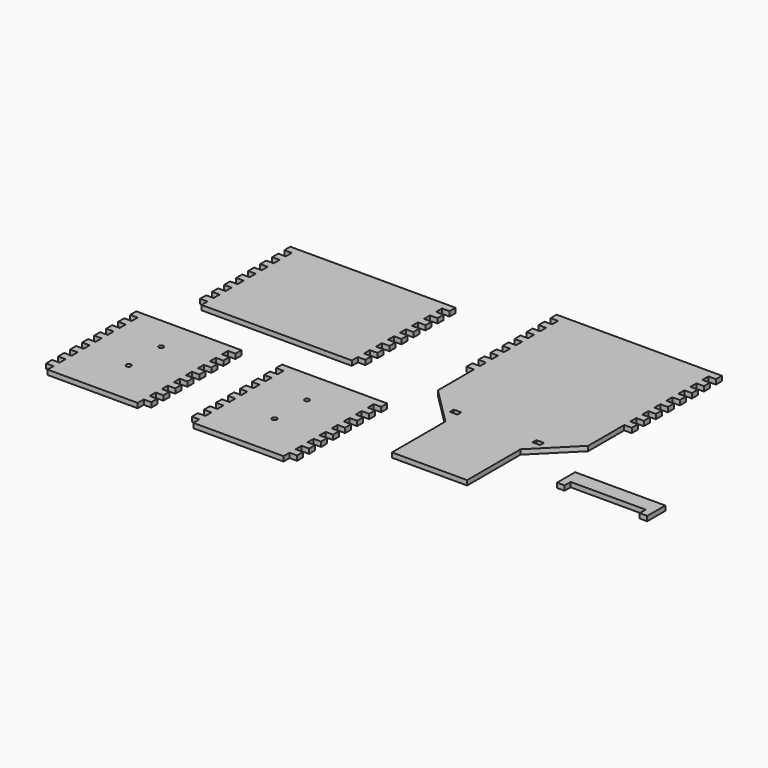
from build123d import *

# Parameters (mm, degrees)
F0_W     = 5
F0_H     = 5
F0_H_2   = 3.175
F1_W     = 5
F1_H     = 5
F2_DEPTH = 3.175


with BuildPart() as f2:
    # F0 (on Top) + F1 (on Top) → F2 (new body)
    with BuildSketch(Plane.XY):
        with Locations((68.193905, 7.5)):
            Rectangle(F0_W, F0_H)
        with Locations((68.193905, 17.5)):
            Rectangle(F0_W, F0_H)
        with Locations((68.193905, 27.5)):
            Rectangle(F0_W, F0_H)
        with Locations((68.193905, 37.5)):
            Rectangle(F0_W, F0_H)
        with Locations((68.193905, 47.5)):
            Rectangle(F0_W, F0_H)
        with Locations((68.193905, 57.5)):
            Rectangle(F0_W, F0_H)
        with Locations((68.193905, 67.5)):
            Rectangle(F0_W, F0_H)
        with Locations((68.193905, 77.5)):
            Rectangle(F0_W, F0_H)
        Polygon((15.693905, 80), (15.693905, 0), (65.693905, 0), (65.693905, 5), (65.693905, 10), (65.693905, 15), (65.693905, 20), (65.693905, 25), (65.693905, 30), (65.693905, 35), (65.693905, 40), (65.693905, 45), (65.693905, 50), (65.693905, 55), (65.693905, 60), (65.693905, 65), (65.693905, 70), (65.693905, 75), (65.693905, 80), align=None)
        Polygon((-34.306095, 5), (-34.306095, 0), (15.693905, 0), (15.693905, 80), (-34.306095, 80), (-34.306095, 75), (-34.306095, 70), (-34.306095, 65), (-34.306095, 60), (-34.306095, 55), (-34.306095, 50), (-34.306095, 45), (-34.306095, 40), (-34.306095, 35), (-34.306095, 30), (-34.306095, 25), (-34.306095, 20), (-34.306095, 15), (-34.306095, 10), align=None)
        Polygon((15.693905, 0), (-34.306095, 0), (-34.306095, -25), (-9.306095, -50), (-3.056095, -50), (3.193905, -50), (6.943905, -50), (15.693905, -50), align=None)
        with Locations((-11.806095, -38.4125)):
            Rectangle(F0_W, F0_H_2, mode=Mode.SUBTRACT)
        Polygon((65.693905, 0), (15.693905, 0), (15.693905, -50), (40.693905, -50), (65.693905, -25), align=None)
        with Locations((43.193905, -38.4125)):
            Rectangle(F0_W, F0_H_2, mode=Mode.SUBTRACT)
        with Locations((-36.806095, 7.5)):
            Rectangle(F0_W, F0_H)
        with Locations((-36.806095, 17.5)):
            Rectangle(F0_W, F0_H)
        with Locations((-36.806095, 27.5)):
            Rectangle(F0_W, F0_H)
        with Locations((-36.806095, 37.5)):
            Rectangle(F0_W, F0_H)
        with Locations((-36.806095, 47.5)):
            Rectangle(F0_W, F0_H)
        with Locations((-36.806095, 57.5)):
            Rectangle(F0_W, F0_H)
        with Locations((-36.806095, 67.5)):
            Rectangle(F0_W, F0_H)
        with Locations((-36.806095, 77.5)):
            Rectangle(F0_W, F0_H)
        Polygon((138.929565, -52.420982), (78.929565, -52.420982), (78.929565, -62.420982), (83.929565, -62.420982), (133.929565, -62.420982), (138.929565, -62.420982), align=None)
        with Locations((81.429565, -64.920982)):
            Rectangle(F0_W, F0_H)
        with Locations((136.429565, -64.920982)):
            Rectangle(F0_W, F0_H)
        Polygon((40.693905, -50), (15.693905, -50), (6.943905, -50), (3.193905, -50), (-3.056095, -50), (-9.306095, -50), (-9.306095, -94.45), (40.693905, -94.45), align=None)
    with BuildSketch(Plane.XY):
        with BuildLine():
            Line((-207.239708, -128.51478), (-207.239708, -133.51478))
            Line((-207.239708, -133.51478), (-177.239708, -133.51478))
            Line((-177.239708, -133.51478), (-177.239708, -105.10228))
            ThreePointArc((-177.239708, -105.10228), (-178.827208, -103.51478), (-177.239708, -101.92728))
            Line((-177.239708, -101.92728), (-177.239708, -78.10228))
            ThreePointArc((-177.239708, -78.10228), (-178.827208, -76.51478), (-177.239708, -74.92728))
            Line((-177.239708, -74.92728), (-177.239708, -53.51478))
            Line((-177.239708, -53.51478), (-207.239708, -53.51478))
            Line((-207.239708, -53.51478), (-207.239708, -58.51478))
            Line((-207.239708, -58.51478), (-207.239708, -63.51478))
            Line((-207.239708, -63.51478), (-207.239708, -68.51478))
            Line((-207.239708, -68.51478), (-207.239708, -73.51478))
            Line((-207.239708, -73.51478), (-207.239708, -78.51478))
            Line((-207.239708, -78.51478), (-207.239708, -83.51478))
            Line((-207.239708, -83.51478), (-207.239708, -88.51478))
            Line((-207.239708, -88.51478), (-207.239708, -93.51478))
            Line((-207.239708, -93.51478), (-207.239708, -98.51478))
            Line((-207.239708, -98.51478), (-207.239708, -103.51478))
            Line((-207.239708, -103.51478), (-207.239708, -108.51478))
            Line((-207.239708, -108.51478), (-207.239708, -113.51478))
            Line((-207.239708, -113.51478), (-207.239708, -118.51478))
            Line((-207.239708, -118.51478), (-207.239708, -123.51478))
            Line((-207.239708, -123.51478), (-207.239708, -128.51478))
        make_face()
        with Locations((-209.739708, -126.01478)):
            Rectangle(F1_W, F1_H)
        with Locations((-209.739708, -116.01478)):
            Rectangle(F1_W, F1_H)
        with Locations((-209.739708, -106.01478)):
            Rectangle(F1_W, F1_H)
        with Locations((-209.739708, -96.01478)):
            Rectangle(F1_W, F1_H)
        with Locations((-209.739708, -86.01478)):
            Rectangle(F1_W, F1_H)
        with Locations((-209.739708, -76.01478)):
            Rectangle(F1_W, F1_H)
        with Locations((-209.739708, -66.01478)):
            Rectangle(F1_W, F1_H)
        with Locations((-209.739708, -56.01478)):
            Rectangle(F1_W, F1_H)
        Polygon((-190.177808, -21.72308), (-190.177808, -26.72308), (-140.177808, -26.72308), (-140.177808, 53.27692), (-190.177808, 53.27692), (-190.177808, 48.27692), (-190.177808, 43.27692), (-190.177808, 38.27692), (-190.177808, 33.27692), (-190.177808, 28.27692), (-190.177808, 23.27692), (-190.177808, 18.27692), (-190.177808, 13.27692), (-190.177808, 8.27692), (-190.177808, 3.27692), (-190.177808, -1.72308), (-190.177808, -6.72308), (-190.177808, -11.72308), (-190.177808, -16.72308), align=None)
        Polygon((-140.177808, 53.27692), (-140.177808, -26.72308), (-90.177808, -26.72308), (-90.177808, -21.72308), (-90.177808, -16.72308), (-90.177808, -11.72308), (-90.177808, -6.72308), (-90.177808, -1.72308), (-90.177808, 3.27692), (-90.177808, 8.27692), (-90.177808, 13.27692), (-90.177808, 18.27692), (-90.177808, 23.27692), (-90.177808, 28.27692), (-90.177808, 33.27692), (-90.177808, 38.27692), (-90.177808, 43.27692), (-90.177808, 48.27692), (-90.177808, 53.27692), align=None)
        with Locations((-87.677808, 50.77692)):
            Rectangle(F1_W, F1_H)
        with Locations((-87.677808, 40.77692)):
            Rectangle(F1_W, F1_H)
        with Locations((-87.677808, 30.77692)):
            Rectangle(F1_W, F1_H)
        with Locations((-87.677808, 20.77692)):
            Rectangle(F1_W, F1_H)
        with Locations((-87.677808, 10.77692)):
            Rectangle(F1_W, F1_H)
        with Locations((-87.677808, 0.77692)):
            Rectangle(F1_W, F1_H)
        with Locations((-87.677808, -9.22308)):
            Rectangle(F1_W, F1_H)
        with Locations((-87.677808, -19.22308)):
            Rectangle(F1_W, F1_H)
        with Locations((-192.677808, -19.22308)):
            Rectangle(F1_W, F1_H)
        with Locations((-192.677808, -9.22308)):
            Rectangle(F1_W, F1_H)
        with Locations((-192.677808, 0.77692)):
            Rectangle(F1_W, F1_H)
        with Locations((-192.677808, 10.77692)):
            Rectangle(F1_W, F1_H)
        with Locations((-192.677808, 20.77692)):
            Rectangle(F1_W, F1_H)
        with Locations((-192.677808, 30.77692)):
            Rectangle(F1_W, F1_H)
        with Locations((-192.677808, 40.77692)):
            Rectangle(F1_W, F1_H)
        with Locations((-192.677808, 50.77692)):
            Rectangle(F1_W, F1_H)
        with BuildLine():
            Line((-177.239708, -105.10228), (-177.239708, -133.51478))
            Line((-177.239708, -133.51478), (-147.239708, -133.51478))
            Line((-147.239708, -133.51478), (-147.239708, -128.51478))
            Line((-147.239708, -128.51478), (-147.239708, -123.51478))
            Line((-147.239708, -123.51478), (-147.239708, -118.51478))
            Line((-147.239708, -118.51478), (-147.239708, -113.51478))
            Line((-147.239708, -113.51478), (-147.239708, -108.51478))
            Line((-147.239708, -108.51478), (-147.239708, -103.51478))
            Line((-147.239708, -103.51478), (-147.239708, -98.51478))
            Line((-147.239708, -98.51478), (-147.239708, -93.51478))
            Line((-147.239708, -93.51478), (-147.239708, -88.51478))
            Line((-147.239708, -88.51478), (-147.239708, -83.51478))
            Line((-147.239708, -83.51478), (-147.239708, -78.51478))
            Line((-147.239708, -78.51478), (-147.239708, -73.51478))
            Line((-147.239708, -73.51478), (-147.239708, -68.51478))
            Line((-147.239708, -68.51478), (-147.239708, -63.51478))
            Line((-147.239708, -63.51478), (-147.239708, -58.51478))
            Line((-147.239708, -58.51478), (-147.239708, -53.51478))
            Line((-147.239708, -53.51478), (-177.239708, -53.51478))
            Line((-177.239708, -53.51478), (-177.239708, -74.92728))
            ThreePointArc((-177.239708, -74.92728), (-176.117176, -75.392248), (-175.652208, -76.51478))
            ThreePointArc((-175.652208, -76.51478), (-176.117176, -77.637312), (-177.239708, -78.10228))
            Line((-177.239708, -78.10228), (-177.239708, -101.92728))
            ThreePointArc((-177.239708, -101.92728), (-176.117176, -102.392248), (-175.652208, -103.51478))
            ThreePointArc((-175.652208, -103.51478), (-176.117176, -104.637312), (-177.239708, -105.10228))
        make_face()
        with Locations((-144.739708, -76.01478)):
            Rectangle(F1_W, F1_H)
        with Locations((-144.739708, -86.01478)):
            Rectangle(F1_W, F1_H)
        with Locations((-144.739708, -56.01478)):
            Rectangle(F1_W, F1_H)
        with Locations((-144.739708, -116.01478)):
            Rectangle(F1_W, F1_H)
        with Locations((-144.739708, -66.01478)):
            Rectangle(F1_W, F1_H)
        with Locations((-144.739708, -96.01478)):
            Rectangle(F1_W, F1_H)
        with Locations((-144.739708, -126.01478)):
            Rectangle(F1_W, F1_H)
        with Locations((-144.739708, -106.01478)):
            Rectangle(F1_W, F1_H)
        with BuildLine():
            Line((-110.650933, -127.980252), (-110.650933, -132.980252))
            Line((-110.650933, -132.980252), (-80.650933, -132.980252))
            Line((-80.650933, -132.980252), (-80.650933, -104.567752))
            ThreePointArc((-80.650933, -104.567752), (-82.238433, -102.980252), (-80.650933, -101.392752))
            Line((-80.650933, -101.392752), (-80.650933, -77.567752))
            ThreePointArc((-80.650933, -77.567752), (-82.238433, -75.980252), (-80.650933, -74.392752))
            Line((-80.650933, -74.392752), (-80.650933, -52.980252))
            Line((-80.650933, -52.980252), (-110.650933, -52.980252))
            Line((-110.650933, -52.980252), (-110.650933, -57.980252))
            Line((-110.650933, -57.980252), (-110.650933, -62.980252))
            Line((-110.650933, -62.980252), (-110.650933, -67.980252))
            Line((-110.650933, -67.980252), (-110.650933, -72.980252))
            Line((-110.650933, -72.980252), (-110.650933, -77.980252))
            Line((-110.650933, -77.980252), (-110.650933, -82.980252))
            Line((-110.650933, -82.980252), (-110.650933, -87.980252))
            Line((-110.650933, -87.980252), (-110.650933, -92.980252))
            Line((-110.650933, -92.980252), (-110.650933, -97.980252))
            Line((-110.650933, -97.980252), (-110.650933, -102.980252))
            Line((-110.650933, -102.980252), (-110.650933, -107.980252))
            Line((-110.650933, -107.980252), (-110.650933, -112.980252))
            Line((-110.650933, -112.980252), (-110.650933, -117.980252))
            Line((-110.650933, -117.980252), (-110.650933, -122.980252))
            Line((-110.650933, -122.980252), (-110.650933, -127.980252))
        make_face()
        with BuildLine():
            Line((-80.650933, -104.567752), (-80.650933, -132.980252))
            Line((-80.650933, -132.980252), (-50.650933, -132.980252))
            Line((-50.650933, -132.980252), (-50.650933, -127.980252))
            Line((-50.650933, -127.980252), (-50.650933, -122.980252))
            Line((-50.650933, -122.980252), (-50.650933, -117.980252))
            Line((-50.650933, -117.980252), (-50.650933, -112.980252))
            Line((-50.650933, -112.980252), (-50.650933, -107.980252))
            Line((-50.650933, -107.980252), (-50.650933, -102.980252))
            Line((-50.650933, -102.980252), (-50.650933, -97.980252))
            Line((-50.650933, -97.980252), (-50.650933, -92.980252))
            Line((-50.650933, -92.980252), (-50.650933, -87.980252))
            Line((-50.650933, -87.980252), (-50.650933, -82.980252))
            Line((-50.650933, -82.980252), (-50.650933, -77.980252))
            Line((-50.650933, -77.980252), (-50.650933, -72.980252))
            Line((-50.650933, -72.980252), (-50.650933, -67.980252))
            Line((-50.650933, -67.980252), (-50.650933, -62.980252))
            Line((-50.650933, -62.980252), (-50.650933, -57.980252))
            Line((-50.650933, -57.980252), (-50.650933, -52.980252))
            Line((-50.650933, -52.980252), (-80.650933, -52.980252))
            Line((-80.650933, -52.980252), (-80.650933, -74.392752))
            ThreePointArc((-80.650933, -74.392752), (-79.528401, -74.85772), (-79.063433, -75.980252))
            ThreePointArc((-79.063433, -75.980252), (-79.528401, -77.102784), (-80.650933, -77.567752))
            Line((-80.650933, -77.567752), (-80.650933, -101.392752))
            ThreePointArc((-80.650933, -101.392752), (-79.528401, -101.85772), (-79.063433, -102.980252))
            ThreePointArc((-79.063433, -102.980252), (-79.528401, -104.102784), (-80.650933, -104.567752))
        make_face()
        with Locations((-48.150933, -105.480252)):
            Rectangle(F1_W, F1_H)
        with Locations((-48.150933, -85.480252)):
            Rectangle(F1_W, F1_H)
        with Locations((-48.150933, -75.480252)):
            Rectangle(F1_W, F1_H)
        with Locations((-48.150933, -65.480252)):
            Rectangle(F1_W, F1_H)
        with Locations((-48.150933, -115.480252)):
            Rectangle(F1_W, F1_H)
        with Locations((-48.150933, -95.480252)):
            Rectangle(F1_W, F1_H)
        with Locations((-48.150933, -125.480252)):
            Rectangle(F1_W, F1_H)
        with Locations((-48.150933, -55.480252)):
            Rectangle(F1_W, F1_H)
        with Locations((-113.150933, -115.480252)):
            Rectangle(F1_W, F1_H)
        with Locations((-113.150933, -105.480252)):
            Rectangle(F1_W, F1_H)
        with Locations((-113.150933, -75.480252)):
            Rectangle(F1_W, F1_H)
        with Locations((-113.150933, -95.480252)):
            Rectangle(F1_W, F1_H)
        with Locations((-113.150933, -85.480252)):
            Rectangle(F1_W, F1_H)
        with Locations((-113.150933, -65.480252)):
            Rectangle(F1_W, F1_H)
        with Locations((-113.150933, -55.480252)):
            Rectangle(F1_W, F1_H)
        with Locations((-113.150933, -125.480252)):
            Rectangle(F1_W, F1_H)
    extrude(amount=F2_DEPTH)


solid = f2.part
